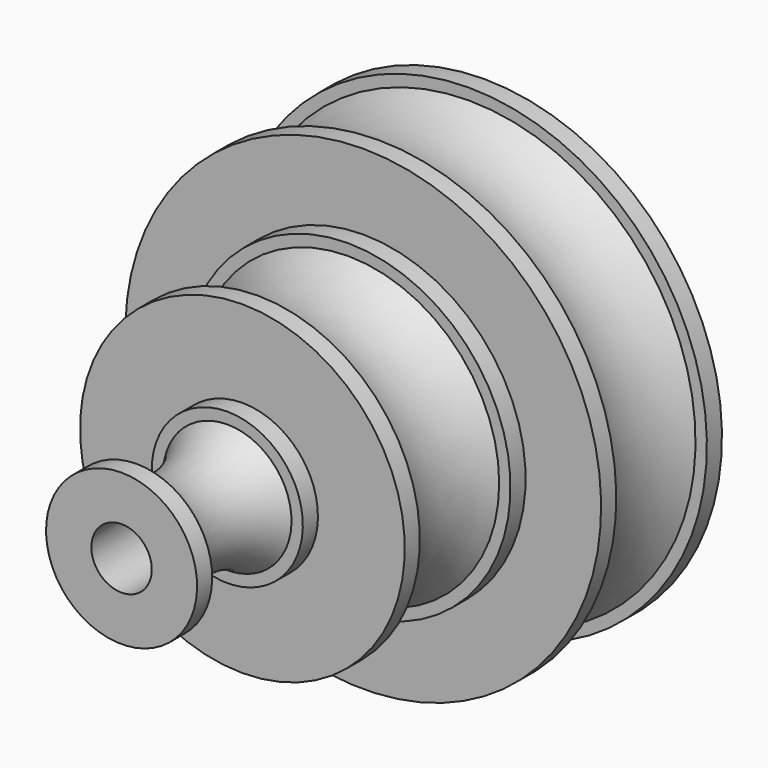
from build123d import *


with BuildPart() as f1:
    # F0 (on Right) → F1 (revolve)
    with BuildSketch(Plane.YZ):
        Polygon((-15, 60), (-15, 8), (-10, 8), (-10, 63), (-15, 63), align=None)
        with BuildLine():
            Line((-45, 60), (-45, 8))
            Line((-45, 8), (-15, 8))
            Line((-15, 8), (-15, 60))
            ThreePointArc((-15, 60), (-30, 55.031032), (-45, 60))
        make_face()
        Polygon((-50, 8), (-45, 8), (-45, 60), (-45, 63), (-50, 63), (-50, 43), align=None)
        Polygon((-55, 8), (-50, 8), (-50, 43), (-55, 43), (-55, 40), align=None)
        with BuildLine():
            Line((-85, 8), (-55, 8))
            Line((-55, 8), (-55, 40))
            ThreePointArc((-55, 40), (-70, 35.031032), (-85, 40))
            Line((-85, 40), (-85, 8))
        make_face()
        Polygon((-90, 8), (-85, 8), (-85, 40), (-85, 43), (-90, 43), (-90, 20), align=None)
        Polygon((-95, 8), (-90, 8), (-90, 20), (-95, 20), (-95, 17), align=None)
        with BuildLine():
            Line((-125, 8), (-95, 8))
            Line((-95, 8), (-95, 17))
            ThreePointArc((-95, 17), (-110, 12.031032), (-125, 17))
            Line((-125, 17), (-125, 8))
        make_face()
        Polygon((-130, 8), (-125, 8), (-125, 17), (-125, 20), (-130, 20), align=None)
    revolve(axis=Axis((0, 30, 0), (0, -1, 0)))


solid = f1.part
